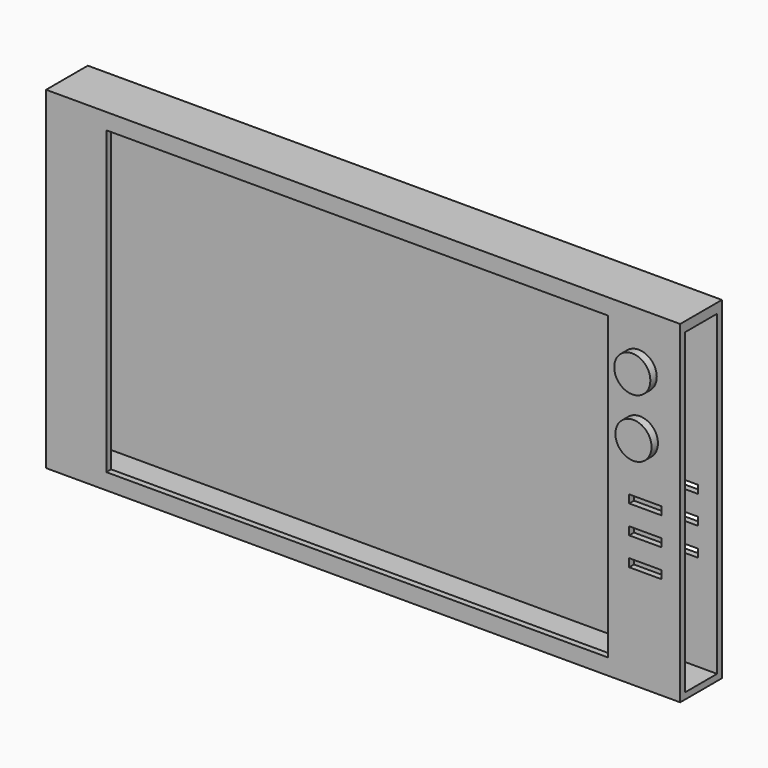
from build123d import *

# Parameters (mm, degrees)
F0_W      = 158
F0_H      = 83
F1_DEPTH  = 13
F2_W      = 125
F2_H      = 75
F3_DEPTH  = 10
F4_W      = 10
F4_H      = 79
F5_DEPTH  = 157
F6_R      = 4.5
F7_DEPTH  = 2
F8_R      = 4.5
F9_DEPTH  = 2
F10_W     = 8
F10_H     = 2
F11_DEPTH = 25


with BuildPart() as f1:
    # F0 (on Front) → F1 (new body)
    with BuildSketch(Plane.XZ):
        with Locations((79, 41.5)):
            Rectangle(F0_W, F0_H)
    extrude(amount=F1_DEPTH)

    # F2 (on face) → F3 (cut)
    with BuildSketch(Plane.XZ.offset(13)):
        with Locations((77.5, 41.5)):
            Rectangle(F2_W, F2_H)
    extrude(amount=-F3_DEPTH, mode=Mode.SUBTRACT)

    # F4 (on face) → F5 (cut)
    with BuildSketch(Plane.YZ.offset(158)):
        with Locations((-6.5, 41.0799)):
            Rectangle(F4_W, F4_H)
    extrude(amount=-F5_DEPTH, mode=Mode.SUBTRACT)

    # F6 (on face) → F7 (join)
    with BuildSketch(Plane.XZ.offset(13)):
        with Locations((147.664174, 69.502406)):
            Circle(F6_R)
    extrude(amount=F7_DEPTH)

    # F8 (on face) → F9 (join)
    with BuildSketch(Plane.XZ.offset(13)):
        with Locations((147.959903, 55.012029)):
            Circle(F8_R)
    extrude(amount=F9_DEPTH)

    # F10 (on face) → F11 (cut)
    with BuildSketch(Plane.XZ.offset(13)):
        with Locations((149.298406, 40.5)):
            Rectangle(F10_W, F10_H)
        with Locations((149.298406, 33.5)):
            Rectangle(F10_W, F10_H)
        with Locations((149.298406, 26.5)):
            Rectangle(F10_W, F10_H)
    extrude(amount=-F11_DEPTH, mode=Mode.SUBTRACT)


solid = f1.part
